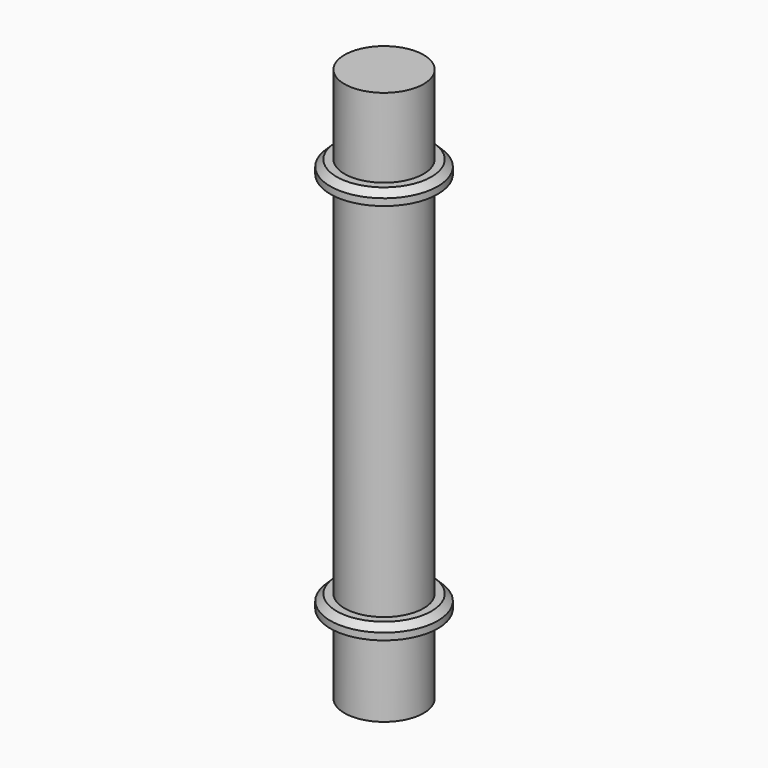
from build123d import *

# Parameters (mm, degrees)
F2_SIZE = 1.2


with BuildPart() as f1:
    # F0 (on Front) → F1 (revolve)
    with BuildSketch(Plane.XZ):
        Polygon((7.5, 52.5), (0, 52.5), (0, -52.5), (7.5, -52.5), (7.5, -37.5), (10.19, -37.5), (10.19, -35), (7.5, -35), (7.5, 35), (10.19, 35), (10.19, 37.5), (7.5, 37.5), align=None)
    revolve(axis=Axis((0, 0, 0.15672), (0, 0, -1)))

    # F2
    f2_edges = [f1.edges().sort_by_distance(p)[0] for p in [
        (-10.19, 0, 37.5),
        (-10.19, 0, -35),
    ]]
    chamfer(f2_edges, length=F2_SIZE)


solid = f1.part
